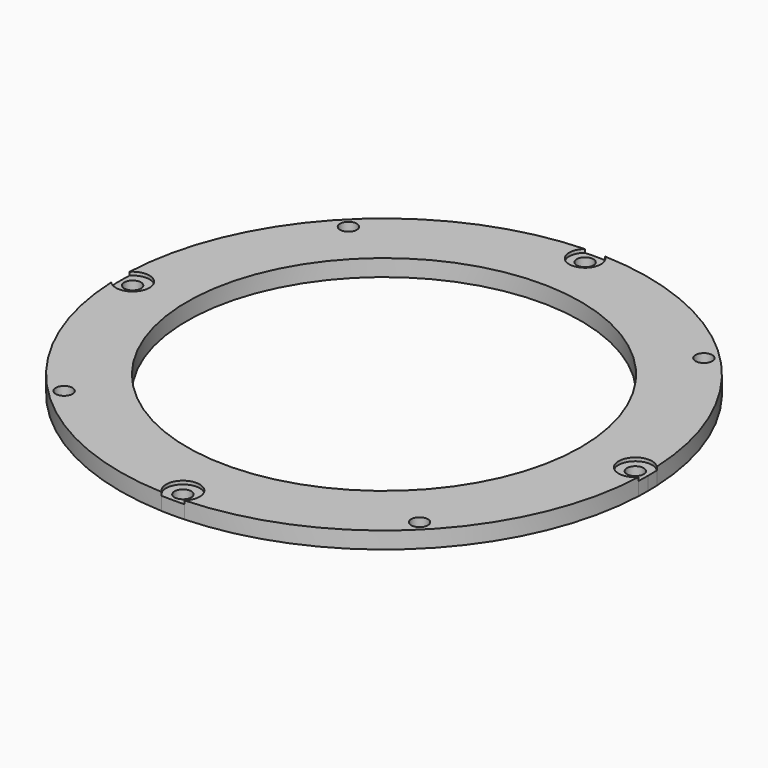
from build123d import *

# Parameters (mm, degrees)
F0_R     = 1.5875
F1_DEPTH = 2.54
F0_R_2   = 37.30625
F2_DEPTH = 3.175


with BuildPart() as f1:
    # F0 (on Top) → F1 (new body)
    with BuildSketch(Plane.XY):
        with BuildLine():
            ThreePointArc((-1.88189, 49.970827), (0, 44.617607), (1.88189, 49.970827))
            ThreePointArc((1.88189, 49.970827), (0, 50.00625), (-1.88189, 49.970827))
        make_face()
        with Locations((0, 47.625)):
            Circle(F0_R, mode=Mode.SUBTRACT)
        with BuildLine():
            ThreePointArc((-49.959948, -2.151428), (-44.45, 0), (-49.959948, 2.151428))
            ThreePointArc((-49.959948, 2.151428), (-50.00625, 0), (-49.959948, -2.151428))
        make_face()
        with Locations((-47.625, 0)):
            Circle(F0_R, mode=Mode.SUBTRACT)
        with BuildLine():
            ThreePointArc((-2.151428, -49.959948), (0, -50.00625), (2.151428, -49.959948))
            ThreePointArc((2.151428, -49.959948), (0, -44.45), (-2.151428, -49.959948))
        make_face()
        with Locations((0, -47.625)):
            Circle(F0_R, mode=Mode.SUBTRACT)
        with BuildLine():
            ThreePointArc((49.959948, -2.151428), (49.994673, -1.075963), (50.00625, 0))
            ThreePointArc((50.00625, 0), (49.994673, 1.075963), (49.959948, 2.151428))
            ThreePointArc((49.959948, 2.151428), (44.45, 0), (49.959948, -2.151428))
        make_face()
        with Locations((47.625, 0)):
            Circle(F0_R, mode=Mode.SUBTRACT)
    extrude(amount=F1_DEPTH)


with BuildPart() as f2:
    # F0 (on Top) → F2 (new body)
    with BuildSketch(Plane.XY):
        with BuildLine():
            ThreePointArc((49.959948, -2.151428), (44.45, 0), (49.959948, 2.151428))
            ThreePointArc((49.959948, 2.151428), (35.264256, 35.455004), (1.88189, 49.970827))
            ThreePointArc((1.88189, 49.970827), (0, 44.617607), (-1.88189, 49.970827))
            ThreePointArc((-1.88189, 49.970827), (-35.264256, 35.455004), (-49.959948, 2.151428))
            ThreePointArc((-49.959948, 2.151428), (-44.45, 0), (-49.959948, -2.151428))
            ThreePointArc((-49.959948, -2.151428), (-35.359758, -35.359758), (-2.151428, -49.959948))
            ThreePointArc((-2.151428, -49.959948), (0, -44.45), (2.151428, -49.959948))
            ThreePointArc((2.151428, -49.959948), (35.359758, -35.359758), (49.959948, -2.151428))
        make_face()
        with Locations((-33.67596, -33.67596)):
            Circle(F0_R, mode=Mode.SUBTRACT)
        Circle(F0_R_2, mode=Mode.SUBTRACT)
        with Locations((33.67596, -33.67596)):
            Circle(F0_R, mode=Mode.SUBTRACT)
        with Locations((-33.67596, 33.67596)):
            Circle(F0_R, mode=Mode.SUBTRACT)
        with Locations((33.67596, 33.67596)):
            Circle(F0_R, mode=Mode.SUBTRACT)
    extrude(amount=F2_DEPTH)


solid = Compound([f1.part, f2.part])
